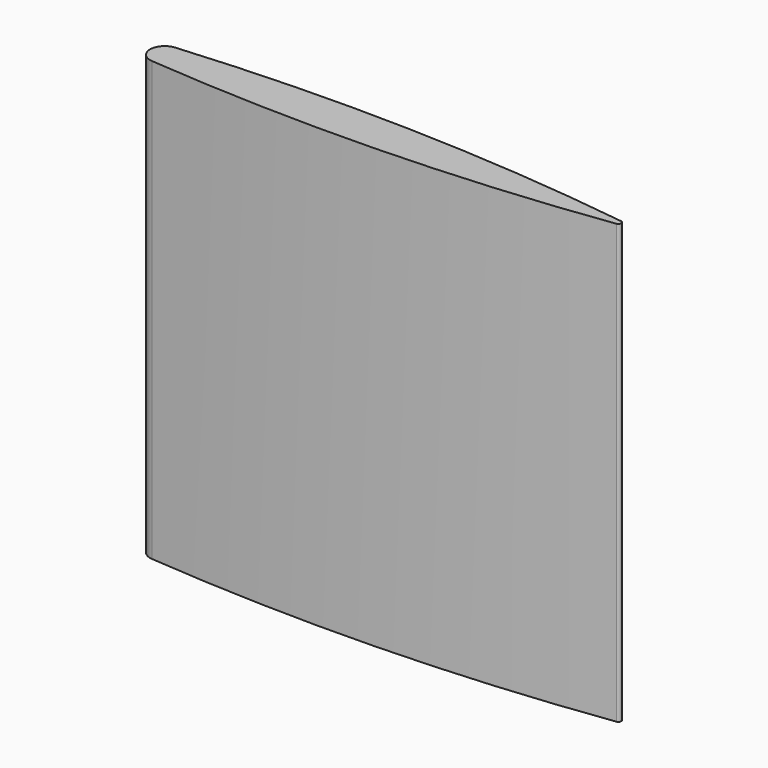
from build123d import *

# Parameters (mm, degrees)
F1_DEPTH = 150
F2_R     = 5
F3_R     = 1


with BuildPart() as f1:
    # F0 (on Top) → F1 (new body)
    with BuildSketch(Plane.XY):
        with BuildLine():
            Line((126.764090176, 0), (-79.235909824, 0))
            ThreePointArc((-79.235909824, 0), (23.764090176, -7.5), (126.764090176, 0))
        make_face()
        with BuildLine():
            ThreePointArc((126.764090176, 0), (23.764090176, 7.5), (-79.235909824, 0))
            Line((-79.235909824, 0), (126.764090176, 0))
        make_face()
    extrude(amount=F1_DEPTH)

    # F2
    f2_edges = [f1.edges().sort_by_distance(p)[0] for p in [
        (-79.23591, 0, 75),
    ]]
    fillet(f2_edges, radius=F2_R)

    # F3
    f3_edges = [f1.edges().sort_by_distance(p)[0] for p in [
        (126.76409, 0, 75),
    ]]
    fillet(f3_edges, radius=F3_R)


solid = f1.part
